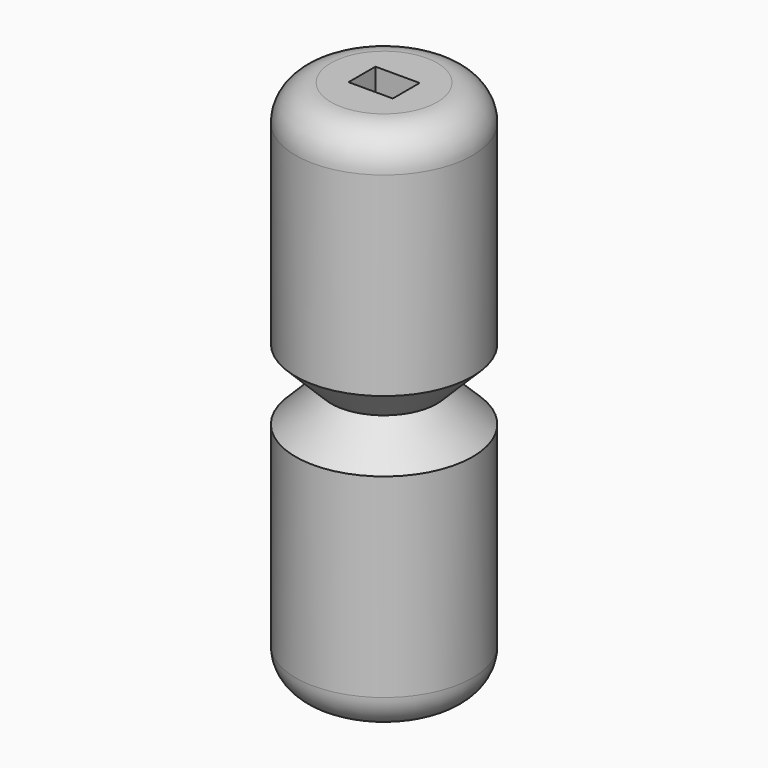
from build123d import *

# Parameters (mm, degrees)
F0_R     = 10
F1_DEPTH = 30
F2_W     = 5
F2_H     = 3.8
F3_DEPTH = 15
F4_R     = 4
F5_SIZE  = 4


with BuildPart() as f1:
    # F0 (on Top) → F1 (new body)
    with BuildSketch(Plane.XY):
        Circle(F0_R)
    extrude(amount=F1_DEPTH)

    # F2 (on face) → F3 (cut)
    with BuildSketch(Plane.XY.offset(30)):
        Rectangle(F2_W, F2_H)
    extrude(amount=-F3_DEPTH, mode=Mode.SUBTRACT)

    # F4
    f4_edges = [f1.edges().sort_by_distance(p)[0] for p in [
        (-10, 0, 30),
    ]]
    fillet(f4_edges, radius=F4_R)

    # F5
    f5_edges = [f1.edges().sort_by_distance(p)[0] for p in [
        (-10, 0, 0),
    ]]
    chamfer(f5_edges, length=F5_SIZE)

    # F6: F1 across face


with BuildPart() as f1_1:
    add(f1.part)
    add(f1.part.mirror(Plane(origin=(0, 0, 0), x_dir=(1, 0, 0), z_dir=(0, 0, -1))))


solid = f1_1.part
